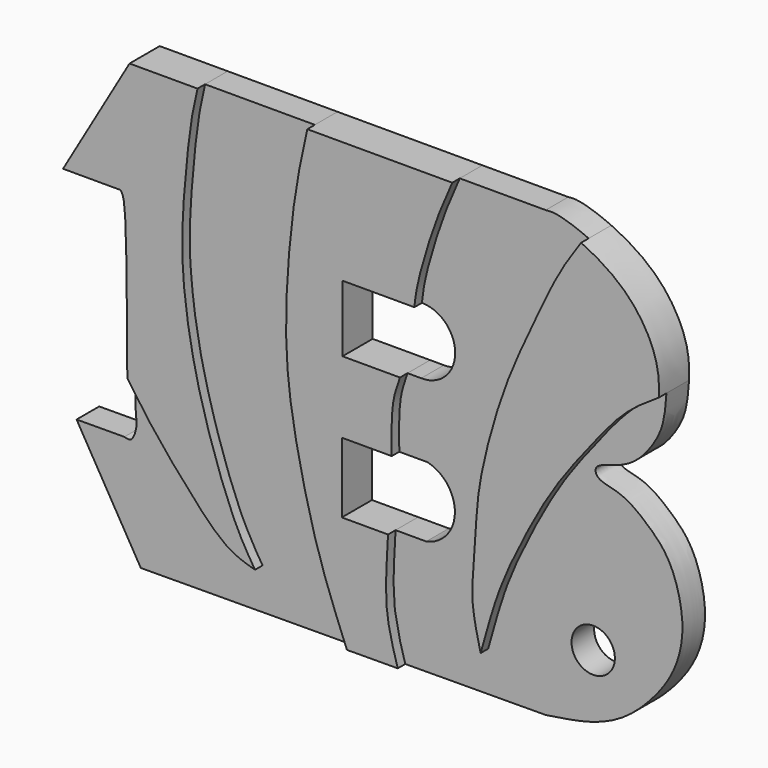
from build123d import *

# Parameters (mm, degrees)
F1_DEPTH = 1.5
F2_DEPTH = 2
F3_R     = 1.15
F4_DEPTH = 25


with BuildPart() as f1:
    # F0 (on Front) → F1 (new body)
    with BuildSketch(Plane.XZ):
        with BuildLine():
            add(Edge.make_bspline(
                [(20.6660386175, 26.9610639662), (20.4576856509, 26.0324368396), (19.9931584423, 23.9620436311), (19.5173953893, 19.3870598202), (19.5078143453, 15.2132446042), (20.2621023743, 11.0693133562), (21.2909258667, 7.0174099957), (22.2792745883, 4.5524684686), (22.7665334657, 3.3372449192)],
                knots=[0, 0, 0, 0, 0.144869677, 0.3229899136, 0.4943422483, 0.6643889527, 0.8345427493, 1, 1, 1, 1], degree=3))
            Line((20.6660386175, 26.9610639662), (14.8434303701, 26.9610639662))
            add(Edge.make_bspline(
                [(14.8434303701, 26.9610639662), (14.7344330597, 26.4948199573), (14.4704403158, 25.3655715864), (14.1366032002, 22.1260809688), (13.910603749, 18.5601021745), (14.5550095001, 14.1289323907), (15.6296335083, 10.3758735811), (16.8423833401, 7.1724763104), (17.5772372142, 5.9979488297), (17.8933683783, 5.4926718585)],
                knots=[0, 0, 0, 0, 0.1021624491, 0.247438631, 0.4036233083, 0.5749836352, 0.7382288881, 0.8873871266, 1, 1, 1, 1], degree=3))
            add(Edge.make_bspline(
                [(11.1215539734, 12.2272790058), (11.5249575236, 11.6395620371), (12.412453889, 10.3496180148), (14.431098963, 7.968574755), (16.3627124278, 5.9209986296), (17.4382411729, 5.6200255878), (17.8933683783, 5.4926718585)],
                knots=[0, 0, 0, 0, 0.242492789, 0.5324088513, 0.8021237637, 1, 1, 1, 1], degree=3))
            add(Edge.make_bspline(
                [(10.5670526858, 9.1111835735), (10.6931901201, 9.0740202497), (10.9983639943, 8.9841081981), (11.2781543186, 9.919520696), (11.157785675, 10.2170936868), (11.1291386465, 11.5786221116), (11.1215539734, 12.2272790058)],
                knots=[0, 0, 0, 0, 0.0944625155, 0.2285403376, 0.3799300941, 0.4796146215, 0.4796146215, 0.4796146215, 0.4796146215], degree=3))
            Line((10.5670526858, 9.1111835735), (8.0305831507, 9.0971440077))
            Line((8.0305831507, 9.0971440077), (11.4370062947, 3.2745350618))
            Line((11.4370062947, 3.2745350618), (22.7665334657, 3.3372449192))
        make_face()
    extrude(amount=F1_DEPTH)


with BuildPart() as f1b:
    # F0 (on Front) → F1, piece 2 (new body)
    with BuildSketch(Plane.XZ):
        with BuildLine():
            add(Edge.make_bspline(
                [(28.3502973616, 26.9610639662), (28.0502551274, 26.2830481717), (27.4045214551, 24.8238615013), (26.478371341, 21.7483968495), (26.3793669662, 20.8416248794), (26.3415891673, 20.4956214875)],
                knots=[0, 0, 0, 0, 0.3492798891, 0.7517001264, 1, 1, 1, 1], degree=3))
            ThreePointArc((26.3415891673, 20.4956214875), (28.1060838339, 18.7133938116), (26.3063013549, 16.9668085873))
            Line((26.3063013549, 16.9668085873), (25.577627122, 16.9668085873))
            add(Edge.make_bspline(
                [(25.577627122, 16.9668085873), (25.4379730337, 16.588157163), (25.1027792876, 15.6793288483), (25.1274998378, 14.0854824684), (25.1419208944, 13.1556913257)],
                knots=[0, 0, 0, 0, 0.4166369141, 1, 1, 1, 1], degree=3))
            Line((25.1419208944, 13.1556913257), (26.6415383667, 13.1556913257))
            ThreePointArc((26.6415383667, 13.1556913257), (28.0911678774, 11.266093081), (26.570962742, 9.4327945262))
            Line((26.570962742, 9.4327945262), (24.9438732862, 9.4327945262))
            add(Edge.make_bspline(
                [(24.9438732862, 9.4327945262), (24.9163529568, 8.9480237368), (24.8559478929, 7.8839881296), (24.7861131689, 5.6779053674), (25.2312208373, 4.14200634), (25.4601221254, 3.3521541522)],
                knots=[0, 0, 0, 0, 0.2890163132, 0.6343691802, 1, 1, 1, 1], degree=3))
            Line((25.4601221254, 3.3521541522), (32.9053997993, 3.3933643717))
            add(Edge.make_bspline(
                [(39.3074102919, 20.4956214875), (39.2951179166, 20.2298391722), (39.2179207498, 19.4479095816), (39.0347112987, 18.4764256834), (37.9649892722, 16.9055315742), (36.7511969896, 16.2266947713), (35.447641843, 15.9877866604), (35.6092749957, 15.2132865459), (36.9602853616, 15.1302585806), (38.4312837701, 13.9685881697), (39.6437777031, 12.7177203077), (40.3882705232, 9.9027454506), (39.7848092027, 7.5532015194), (38.5038444292, 5.8585270129), (37.1089367796, 4.5788545157), (35.3631722184, 3.7588948786), (33.7627880829, 3.5208788525), (32.9053997993, 3.3933643717)],
                knots=[0.2806495168, 0.2806495168, 0.2806495168, 0.2806495168, 0.3014569879, 0.3453971681, 0.396846309, 0.4435194229, 0.4841702474, 0.5097520803, 0.5521263511, 0.6045059572, 0.6552815621, 0.7193348379, 0.7788020968, 0.8342006587, 0.8865145622, 0.9392014189, 1, 1, 1, 1], degree=3))
            add(Edge.make_bspline(
                [(39.3074102919, 20.4956214875), (38.7114864845, 20.1113585687), (37.4236004088, 19.2809053184), (35.5597699096, 16.9257937336), (33.6295365482, 14.4334626917), (32.0063954632, 11.3948808305), (30.7630387226, 8.7746419521), (30.1657042198, 6.6145672452), (29.8554617912, 5.4926718585)],
                knots=[0, 0, 0, 0, 0.1425500914, 0.3080734074, 0.4808644374, 0.6584821849, 0.8226231435, 1, 1, 1, 1], degree=3))
            add(Edge.make_bspline(
                [(35.1827172278, 26.3815832659), (34.814374166, 25.8500031522), (34.0128628658, 24.6904209121), (32.849935442, 22.2143984263), (31.3256658929, 18.9647087573), (30.3811686552, 16.040891122), (29.6328212541, 12.8931358044), (29.588632846, 10.2289829689), (29.2730146106, 7.9026581045), (29.6592567007, 6.3045083419), (29.8554617912, 5.4926718585)],
                knots=[0, 0, 0, 0, 0.1068126147, 0.2319426002, 0.3752130849, 0.5088443981, 0.6439478253, 0.767138686, 0.881674737, 1, 1, 1, 1], degree=3))
            add(Edge.make_bspline(
                [(32.9053997993, 26.9610639662), (33.05625291, 26.9755248546), (33.4638054683, 27.014593138), (34.4449882919, 26.6989109985), (35.071676978, 26.4313536304), (35.1827172278, 26.3815832659)],
                knots=[0, 0, 0, 0, 0.0275852161, 0.074525645, 0.08475593, 0.08475593, 0.08475593, 0.08475593], degree=3))
            Line((32.9053997993, 26.9610639662), (28.3502973616, 26.9610639662))
        make_face()
    extrude(amount=F1_DEPTH)

    # F3 (on face) → F4 (cut)
    with BuildSketch(Plane.XZ.offset(1.5)):
        with Locations((35.423822701, 7.2353151627)):
            Circle(F3_R)
    extrude(amount=-F4_DEPTH, mode=Mode.SUBTRACT)


with BuildPart() as f2:
    # F0 (on Front) → F2 (new body)
    with BuildSketch(Plane.XZ):
        with BuildLine():
            add(Edge.make_bspline(
                [(14.8434303701, 26.9610639662), (14.7344330597, 26.4948199573), (14.4704403158, 25.3655715864), (14.1366032002, 22.1260809688), (13.910603749, 18.5601021745), (14.5550095001, 14.1289323907), (15.6296335083, 10.3758735811), (16.8423833401, 7.1724763104), (17.5772372142, 5.9979488297), (17.8933683783, 5.4926718585)],
                knots=[0, 0, 0, 0, 0.1021624491, 0.247438631, 0.4036233083, 0.5749836352, 0.7382288881, 0.8873871266, 1, 1, 1, 1], degree=3))
            Line((14.8434303701, 26.9610639662), (11.2389586866, 26.9610639662))
            Line((11.2389586866, 26.9610639662), (7.7137062326, 20.9007989615))
            Line((7.7137062326, 20.9007989615), (10.7636433095, 20.9007989615))
            add(Edge.make_bspline(
                [(11.1215539734, 12.2272790058), (11.09178863, 14.772872571), (11.1298205182, 20.3734036888), (10.8364667323, 20.7959133268), (10.7636433095, 20.9007989615)],
                knots=[0.4796146215, 0.4796146215, 0.4796146215, 0.4796146215, 0.8708172647, 1, 1, 1, 1], degree=3))
            add(Edge.make_bspline(
                [(11.1215539734, 12.2272790058), (11.5249575236, 11.6395620371), (12.412453889, 10.3496180148), (14.431098963, 7.968574755), (16.3627124278, 5.9209986296), (17.4382411729, 5.6200255878), (17.8933683783, 5.4926718585)],
                knots=[0, 0, 0, 0, 0.242492789, 0.5324088513, 0.8021237637, 1, 1, 1, 1], degree=3))
        make_face()
    extrude(amount=F2_DEPTH)


with BuildPart() as f2b:
    # F0 (on Front) → F2, piece 2 (new body)
    with BuildSketch(Plane.XZ):
        with BuildLine():
            Line((22.5304719056, 16.9668085873), (22.5304719056, 20.4956214875))
            Line((22.5304719056, 20.4956214875), (26.3415891673, 20.4956214875))
            add(Edge.make_bspline(
                [(28.3502973616, 26.9610639662), (28.0502551274, 26.2830481717), (27.4045214551, 24.8238615013), (26.478371341, 21.7483968495), (26.3793669662, 20.8416248794), (26.3415891673, 20.4956214875)],
                knots=[0, 0, 0, 0, 0.3492798891, 0.7517001264, 1, 1, 1, 1], degree=3))
            Line((28.3502973616, 26.9610639662), (20.6660386175, 26.9610639662))
            add(Edge.make_bspline(
                [(20.6660386175, 26.9610639662), (20.4576856509, 26.0324368396), (19.9931584423, 23.9620436311), (19.5173953893, 19.3870598202), (19.5078143453, 15.2132446042), (20.2621023743, 11.0693133562), (21.2909258667, 7.0174099957), (22.2792745883, 4.5524684686), (22.7665334657, 3.3372449192)],
                knots=[0, 0, 0, 0, 0.144869677, 0.3229899136, 0.4943422483, 0.6643889527, 0.8345427493, 1, 1, 1, 1], degree=3))
            Line((22.7665334657, 3.3372449192), (25.4601221254, 3.3521541522))
            add(Edge.make_bspline(
                [(24.9438732862, 9.4327945262), (24.9163529568, 8.9480237368), (24.8559478929, 7.8839881296), (24.7861131689, 5.6779053674), (25.2312208373, 4.14200634), (25.4601221254, 3.3521541522)],
                knots=[0, 0, 0, 0, 0.2890163132, 0.6343691802, 1, 1, 1, 1], degree=3))
            Line((24.9438732862, 9.4327945262), (22.4951840937, 9.4327945262))
            Line((22.4951840937, 9.4327945262), (22.4951840937, 13.1556913257))
            Line((22.4951840937, 13.1556913257), (25.1419208944, 13.1556913257))
            add(Edge.make_bspline(
                [(25.577627122, 16.9668085873), (25.4379730337, 16.588157163), (25.1027792876, 15.6793288483), (25.1274998378, 14.0854824684), (25.1419208944, 13.1556913257)],
                knots=[0, 0, 0, 0, 0.4166369141, 1, 1, 1, 1], degree=3))
            Line((25.577627122, 16.9668085873), (22.5304719056, 16.9668085873))
        make_face()
    extrude(amount=F2_DEPTH)


with BuildPart() as f2c:
    # F0 (on Front) → F2, piece 3 (new body)
    with BuildSketch(Plane.XZ):
        with BuildLine():
            add(Edge.make_bspline(
                [(35.1827172278, 26.3815832659), (35.6434801218, 26.1750605208), (36.6616822988, 25.6239816404), (38.1720693205, 24.354692801), (39.2835474939, 22.3334695919), (39.3289438558, 20.9612142086), (39.3074102919, 20.4956214875)],
                knots=[0.08475593, 0.08475593, 0.08475593, 0.08475593, 0.1272066245, 0.182590053, 0.2441993598, 0.2806495168, 0.2806495168, 0.2806495168, 0.2806495168], degree=3))
            add(Edge.make_bspline(
                [(35.1827172278, 26.3815832659), (34.814374166, 25.8500031522), (34.0128628658, 24.6904209121), (32.849935442, 22.2143984263), (31.3256658929, 18.9647087573), (30.3811686552, 16.040891122), (29.6328212541, 12.8931358044), (29.588632846, 10.2289829689), (29.2730146106, 7.9026581045), (29.6592567007, 6.3045083419), (29.8554617912, 5.4926718585)],
                knots=[0, 0, 0, 0, 0.1068126147, 0.2319426002, 0.3752130849, 0.5088443981, 0.6439478253, 0.767138686, 0.881674737, 1, 1, 1, 1], degree=3))
            add(Edge.make_bspline(
                [(39.3074102919, 20.4956214875), (38.7114864845, 20.1113585687), (37.4236004088, 19.2809053184), (35.5597699096, 16.9257937336), (33.6295365482, 14.4334626917), (32.0063954632, 11.3948808305), (30.7630387226, 8.7746419521), (30.1657042198, 6.6145672452), (29.8554617912, 5.4926718585)],
                knots=[0, 0, 0, 0, 0.1425500914, 0.3080734074, 0.4808644374, 0.6584821849, 0.8226231435, 1, 1, 1, 1], degree=3))
        make_face()
    extrude(amount=F2_DEPTH)


solid = Compound([f1.part, f1b.part, f2.part, f2b.part, f2c.part])
